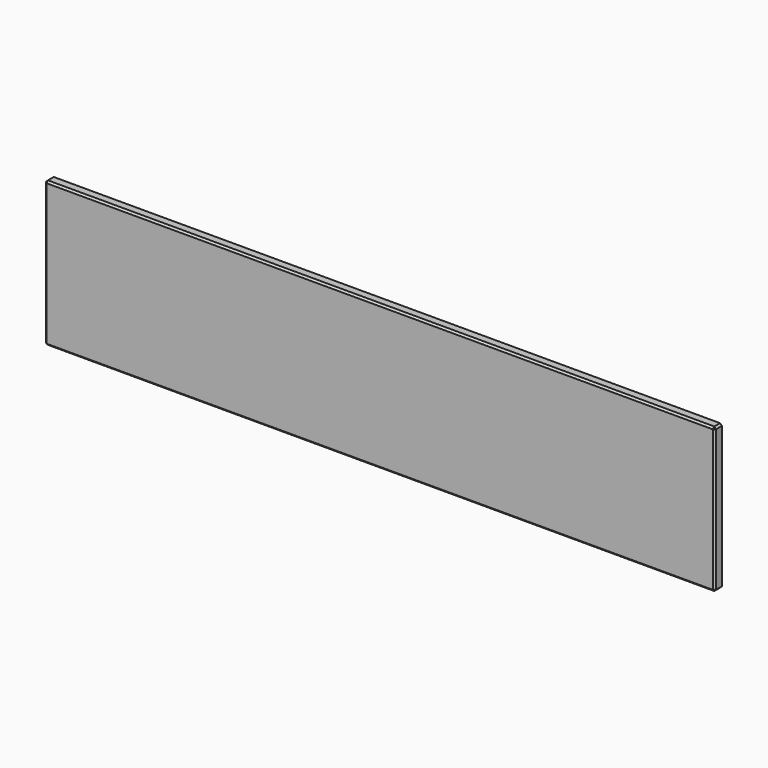
from build123d import *

# Parameters (mm, degrees)
F0_W     = 1850
F0_H     = 400
F1_DEPTH = 25
F2_SIZE  = 5


with BuildPart() as f1:
    # F0 (on Front) → F1 (new body)
    with BuildSketch(Plane.XZ):
        Rectangle(F0_W, F0_H)
    extrude(amount=F1_DEPTH)

    # F2
    f2_edges = [f1.edges().sort_by_distance(p)[0] for p in [
        (0, -25, 200),
        (-925, -25, 0),
        (0, -25, -200),
        (925, -25, 0),
        (-925, -12.5, 200),
        (-925, -12.5, -200),
        (925, -12.5, -200),
        (925, -12.5, 200),
    ]]
    chamfer(f2_edges, length=F2_SIZE)


solid = f1.part
